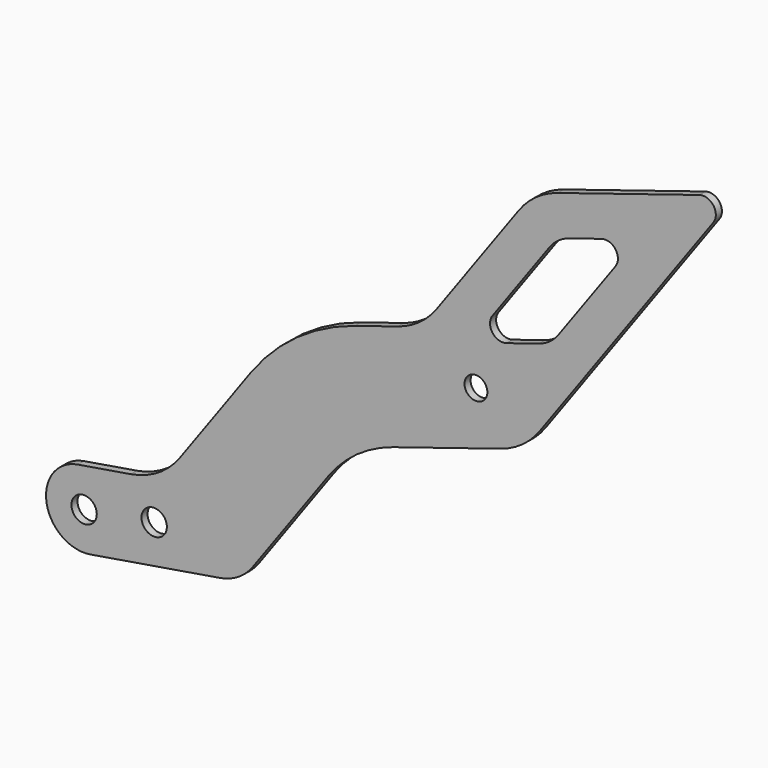
from build123d import *

# Parameters (mm, degrees)
F0_R     = 5
F0_R_2   = 4.5
F1_DEPTH = 3


with BuildPart() as f1:
    # F0 (on Front) → F1 (new body)
    with BuildSketch(Plane.XZ):
        with BuildLine():
            Line((181.856541, 104.659613), (161.031279, 101.207667))
            ThreePointArc((161.031279, 101.207667), (148.68609, 83.956688), (165.93707, 71.611499))
            Line((165.93707, 71.611499), (217.014413, 80.077958))
            ThreePointArc((217.014413, 80.077958), (224.273602, 82.805059), (229.949835, 88.088362))
            Line((229.949835, 88.088362), (259.716481, 129.247177))
            ThreePointArc((259.716481, 129.247177), (271.026296, 140.530281), (285.317602, 147.670236))
            Line((285.317602, 147.670236), (327.667016, 160.904431))
            ThreePointArc((327.667016, 160.904431), (336.2418, 165.188404), (343.027689, 171.958267))
            Line((343.027689, 171.958267), (411.579716, 266.746247))
            ThreePointArc((411.579716, 266.746247), (411.586633, 272.596847), (406.036854, 274.448741))
            Line((406.036854, 274.448741), (350.189063, 256.996302))
            ThreePointArc((350.189063, 256.996302), (341.61428, 252.712329), (334.828391, 245.942466))
            Line((334.828391, 245.942466), (302.462169, 201.189177))
            ThreePointArc((302.462169, 201.189177), (295.67628, 194.419314), (287.101497, 190.135341))
            Line((287.101497, 190.135341), (270.214152, 184.858045))
            ThreePointArc((270.214152, 184.858045), (247.348063, 173.434117), (229.252358, 155.381149))
            Line((229.252358, 155.381149), (201.259675, 116.675219))
            ThreePointArc((201.259675, 116.675219), (192.745325, 108.750265), (181.856541, 104.659613))
        make_face()
        with Locations((163.484175, 86.409583)):
            Circle(F0_R, mode=Mode.SUBTRACT)
        with Locations((191.107266, 90.988321)):
            Circle(F0_R, mode=Mode.SUBTRACT)
        with Locations((317.950853, 178.821948)):
            Circle(F0_R_2, mode=Mode.SUBTRACT)
        with BuildLine():
            ThreePointArc((346.982853, 237.152185), (350.375797, 240.537116), (354.663189, 242.679103))
            Line((354.663189, 242.679103), (367.435469, 246.670441))
            ThreePointArc((367.435469, 246.670441), (372.985248, 244.818547), (372.978332, 238.967947))
            Line((372.978332, 238.967947), (350.452285, 207.820824))
            ThreePointArc((350.452285, 207.820824), (347.059341, 204.435893), (342.771949, 202.293907))
            Line((342.771949, 202.293907), (329.999669, 198.302568))
            ThreePointArc((329.999669, 198.302568), (324.44989, 200.154462), (324.456806, 206.005062))
            Line((324.456806, 206.005062), (346.982853, 237.152185))
        make_face(mode=Mode.SUBTRACT)
    extrude(amount=F1_DEPTH)


solid = f1.part
